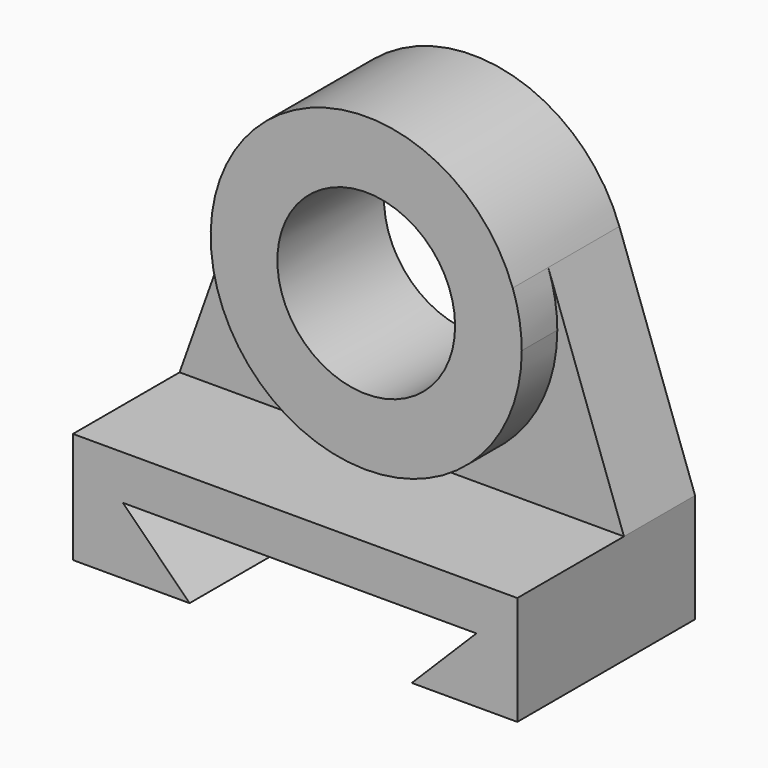
from build123d import *

# Parameters (mm, degrees)
F1_DEPTH = 127
F0_R     = 50.8
F2_DEPTH = 50.8
F3_DEPTH = 76.2


with BuildPart() as f1:
    # F0 (on Front) → F1 (new body)
    with BuildSketch(Plane.XZ):
        Polygon((8.923398, -12.435868), (69.251364, -12.435868), (69.251364, 49.901095), (-184.748636, 49.901095), (-184.748636, -13.598905), (-118.076602, -13.598905), (-156.176602, 24.501095), (45.860362, 24.501095), align=None)
    extrude(amount=F1_DEPTH)

    # F0 (on Front) → F2 (join)
    with BuildSketch(Plane.XZ):
        with BuildLine():
            Line((-184.748636, 49.901095), (69.251364, 49.901095))
            Line((69.251364, 49.901095), (25.984603, 171.206705))
            ThreePointArc((25.984603, 171.206705), (29.850151, 156.495716), (31.151364, 141.341095))
            ThreePointArc((31.151364, 141.341095), (-72.903256, 53.742308), (-141.481875, 171.206705))
            Line((-141.481875, 171.206705), (-184.748636, 49.901095))
        make_face()
        with BuildLine():
            ThreePointArc((31.151364, 141.341095), (29.850151, 156.495716), (25.984603, 171.206705))
            ThreePointArc((25.984603, 171.206705), (-57.748636, 230.241095), (-141.481875, 171.206705))
            ThreePointArc((-141.481875, 171.206705), (-72.903256, 53.742308), (31.151364, 141.341095))
        make_face()
        with Locations((-57.748636, 141.341095)):
            Circle(F0_R, mode=Mode.SUBTRACT)
    extrude(amount=F2_DEPTH)

    # F0 (on Front) → F3 (join)
    with BuildSketch(Plane.XZ):
        with BuildLine():
            ThreePointArc((31.151364, 141.341095), (29.850151, 156.495716), (25.984603, 171.206705))
            ThreePointArc((25.984603, 171.206705), (-57.748636, 230.241095), (-141.481875, 171.206705))
            ThreePointArc((-141.481875, 171.206705), (-72.903256, 53.742308), (31.151364, 141.341095))
        make_face()
        with Locations((-57.748636, 141.341095)):
            Circle(F0_R, mode=Mode.SUBTRACT)
    extrude(amount=F3_DEPTH)


solid = f1.part
